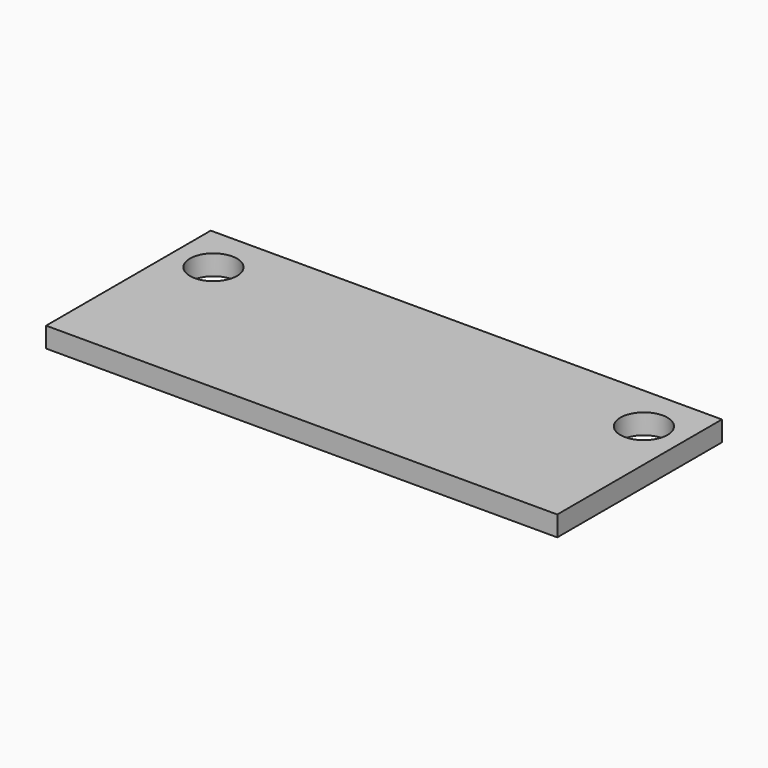
from build123d import *

# Parameters (mm, degrees)
SKETCH_W     = 38
SKETCH_H     = 15.3
PAD_DEPTH    = 1.5
SKETCH001_R  = 1.75
POCKET_DEPTH = 5


with BuildPart() as part:
    # Sketch (on XY_Plane of Origin) → Pad (new body)
    with BuildSketch(Plane.XY):
        Rectangle(SKETCH_W, SKETCH_H)
    extrude(amount=PAD_DEPTH)

    # Sketch001 (on Face6 of Pad) → Pocket (cut)
    with BuildSketch(Plane.XY.offset(1.5)):
        with Locations((-16, 4.15)):
            Circle(SKETCH001_R)
        with Locations((16, 4.15)):
            Circle(SKETCH001_R)
    extrude(amount=-POCKET_DEPTH, mode=Mode.SUBTRACT)


solid = part.part
